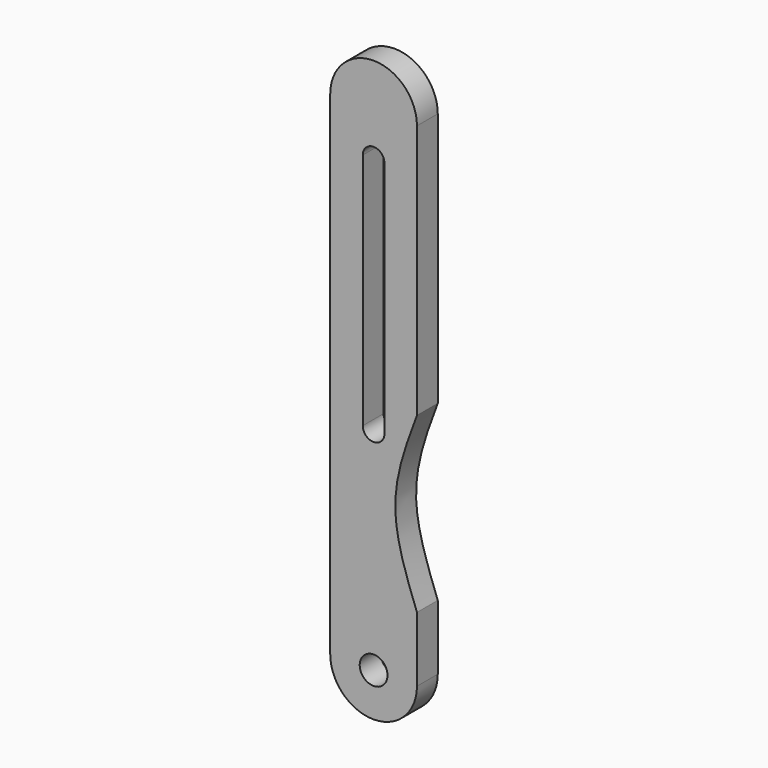
from build123d import *

# Parameters (mm, degrees)
F0_R     = 1.6
F1_DEPTH = 3


with BuildPart() as f1:
    # F0 (on Front) → F1 (new body)
    with BuildSketch(Plane.XZ):
        with BuildLine():
            add(Edge.make_bspline(
                [(0, 27.5), (-1.25, 24.166667), (-2.5, 20.833333), (-2.5, 17.5)],
                knots=[0, 0, 0, 0, 10.307764, 10.307764, 10.307764, 10.307764], degree=3))
            Line((0, 27.5), (0, 32.5))
            Line((0, 32.5), (0, 56.887164))
            ThreePointArc((0, 56.887164), (-5, 61.887164), (-10, 56.887164))
            Line((-10, 56.887164), (-10, 0))
            ThreePointArc((-10, 0), (-5, -5), (0, 0))
            Line((0, 0), (0, 7.5))
            add(Edge.make_bspline(
                [(-2.5, 17.5), (-2.5, 14.166667), (-1.25, 10.833333), (0, 7.5)],
                knots=[10.307764, 10.307764, 10.307764, 10.307764, 20.615528, 20.615528, 20.615528, 20.615528], degree=3))
        make_face()
        with Locations((-5, 0)):
            Circle(F0_R, mode=Mode.SUBTRACT)
        with BuildLine():
            Line((-6.25, 24.412836), (-6.25, 51.887164))
            ThreePointArc((-6.25, 51.887164), (-5, 53.137164), (-3.75, 51.887164))
            Line((-3.75, 51.887164), (-3.75, 24.412836))
            ThreePointArc((-3.75, 24.412836), (-5, 23.162836), (-6.25, 24.412836))
        make_face(mode=Mode.SUBTRACT)
    extrude(amount=F1_DEPTH)


solid = f1.part
